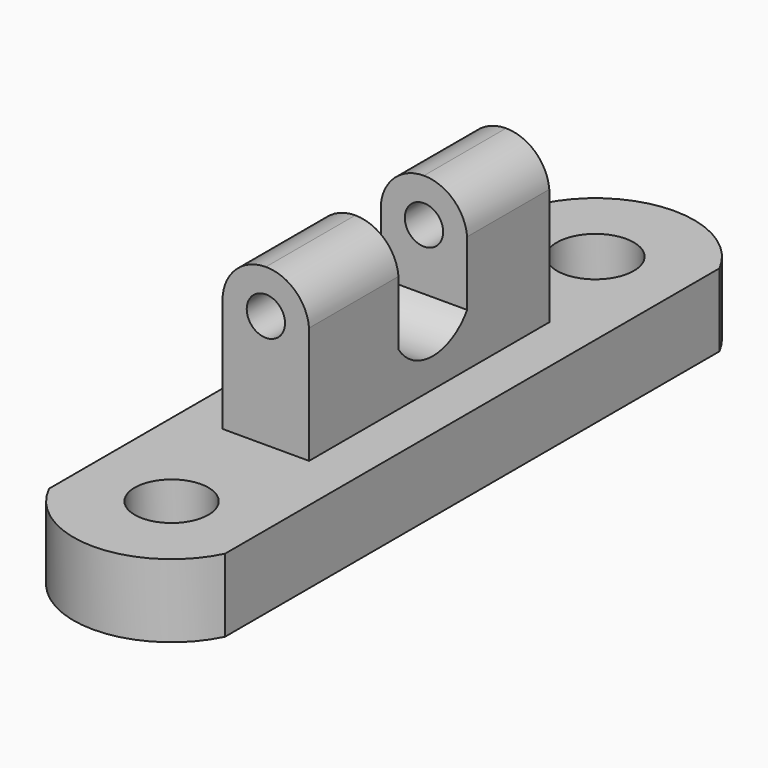
from build123d import *

# Parameters (mm, degrees)
F1_DEPTH  = 17.78
F2_R      = 8.961227
F2_R_2    = 9.35653
F3_DEPTH  = 12.7
F4_W      = 21.001198
F4_H      = 72.985793
F5_DEPTH  = 38.1
F7_DEPTH  = 126.068455
F9_DEPTH  = 32.372704
F10_R     = 4.654821
F11_DEPTH = 126.068455


with BuildPart() as f1:
    # F0 (on Top) → F1 (new body)
    with BuildSketch(Plane.XY):
        with BuildLine():
            ThreePointArc((-18.604314, -75.995304), (2.788962, -89.323594), (24.182238, -75.995304))
            Line((24.182238, -75.995304), (24.182238, 74.255139))
            ThreePointArc((24.182238, 74.255139), (2.788962, 87.323361), (-18.604314, 74.255139))
            Line((-18.604314, 74.255139), (-18.604314, -75.995304))
        make_face()
    extrude(amount=F1_DEPTH)

    # F2 (on face) → F3 (cut)
    with BuildSketch(Plane.XY.offset(17.78)):
        with Locations((2.788962, -65.490246)):
            Circle(F2_R)
        with Locations((2.788962, 63.278366)):
            Circle(F2_R_2)
    extrude(amount=-F3_DEPTH, mode=Mode.SUBTRACT)

    # F4 (on face) → F5 (join)
    with BuildSketch(Plane.XY.offset(17.78)):
        with Locations((2.311133, 0.250964)):
            Rectangle(F4_W, F4_H)
    extrude(amount=F5_DEPTH)

    # F6 (on face) → F7 (cut, through all)
    with BuildSketch(Plane(origin=(0, 36.743861, 0), x_dir=(-1, 0, 0), z_dir=(0, 1, 0))):
        with BuildLine():
            Line((8.189466, 55.88), (-2.311133, 55.88))
            ThreePointArc((-2.311133, 55.88), (4.823938, 53.096615), (8.189466, 46.216957))
            Line((8.189466, 46.216957), (8.189466, 55.88))
        make_face()
        with BuildLine():
            Line((-12.811732, 55.88), (-12.811732, 46.216957))
            ThreePointArc((-12.811732, 46.216957), (-9.446204, 53.096615), (-2.311133, 55.88))
            Line((-2.311133, 55.88), (-12.811732, 55.88))
        make_face()
    extrude(amount=-F7_DEPTH, mode=Mode.SUBTRACT)

    # F8 (on face) → F9 (cut, through all)
    with BuildSketch(Plane(origin=(-8.189466, 0, 0), x_dir=(0, -1, 0), z_dir=(-1, 0, 0))):
        with BuildLine():
            Line((9.075661, 56.156088), (-11.796514, 56.156088))
            Line((-11.796514, 56.156088), (-11.796514, 30.562826))
            ThreePointArc((-11.796514, 30.562826), (-1.360426, 24.932368), (9.075661, 30.562826))
            Line((9.075661, 30.562826), (9.075661, 56.156088))
        make_face()
    extrude(amount=-F9_DEPTH, mode=Mode.SUBTRACT)

    # F10 (on face) → F11 (cut, through all)
    with BuildSketch(Plane(origin=(0, 36.743861, 0), x_dir=(-1, 0, 0), z_dir=(0, 1, 0))):
        with Locations((-2.311133, 45.343103)):
            Circle(F10_R)
    extrude(amount=-F11_DEPTH, mode=Mode.SUBTRACT)


solid = f1.part
